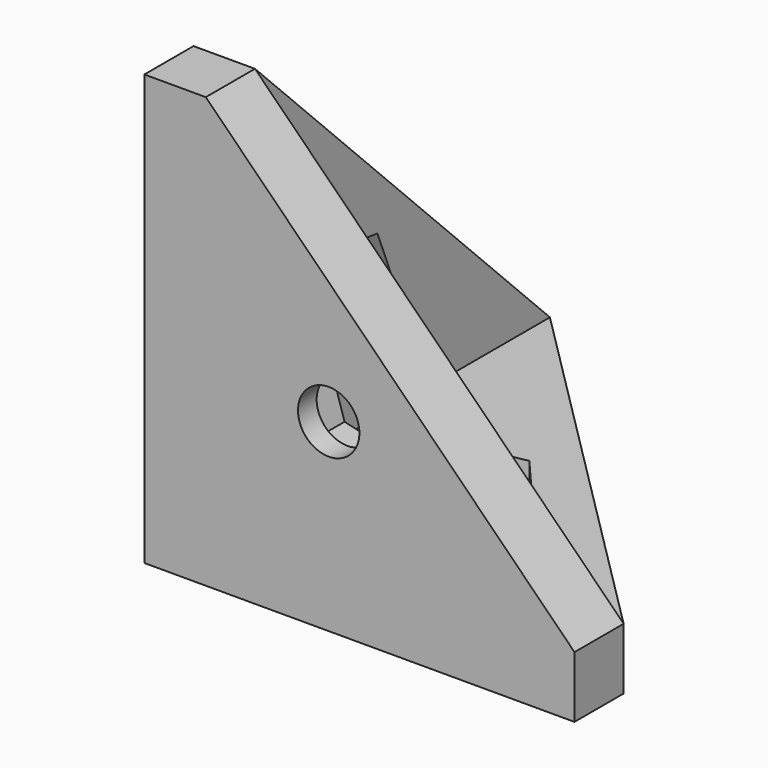
from build123d import *

# Parameters (mm, degrees)
SKETCH_R        = 2.5
PAD_DEPTH       = 5
SKETCH001_R     = 2.5
PAD001_DEPTH    = 5
SKETCH002_R     = 2.5
PAD002_DEPTH    = 5
POCKET_DEPTH    = 3.1
POCKET001_DEPTH = 3.1
POCKET002_DEPTH = 3.1


with BuildPart() as part:
    # Sketch → Pad (new body)
    with BuildSketch(Plane.XY):
        Polygon((0, 0), (0, 35), (5, 35), (35, 5), (35, 0), align=None)
        with Locations((15, 15)):
            Circle(SKETCH_R, mode=Mode.SUBTRACT)
    extrude(amount=PAD_DEPTH)

    # Sketch001 → Pad001 (join)
    with BuildSketch(Plane.XZ):
        Polygon((0, 0), (0, 35), (5, 35), (35, 5), (35, 0), align=None)
        with Locations((15, 15)):
            Circle(SKETCH001_R, mode=Mode.SUBTRACT)
    extrude(amount=-PAD001_DEPTH)

    # Sketch002 → Pad002 (join)
    with BuildSketch(Plane.YZ):
        Polygon((0, 0), (0, 35), (5, 35), (35, 5), (35, 0), align=None)
        with Locations((15, 15)):
            Circle(SKETCH002_R, mode=Mode.SUBTRACT)
    extrude(amount=PAD002_DEPTH)

    # Sketch003 (on Face11 of Pad002) → Pocket (cut)
    with BuildSketch(Plane(origin=(0, 5, 0), x_dir=(-1, 0, 0), z_dir=(0, 1, 0))):
        Polygon((-13.828396, 18.807538), (-17.711622, 17.918408), (-18.883227, 14.11087), (-16.171604, 11.192462), (-12.288378, 12.081592), (-11.116773, 15.88913), align=None)
    extrude(amount=-POCKET_DEPTH, mode=Mode.SUBTRACT)

    # Sketch004 (on Face10 of Pocket) → Pocket001 (cut)
    with BuildSketch(Plane.XY.offset(5)):
        Polygon((16.321291, 18.758216), (12.405934, 18.023379), (11.084644, 14.265163), (13.678709, 11.241784), (17.594066, 11.976621), (18.915356, 15.734837), align=None)
    extrude(amount=-POCKET001_DEPTH, mode=Mode.SUBTRACT)

    # Sketch005 (on Face12 of Pocket001) → Pocket002 (cut)
    with BuildSketch(Plane.YZ.offset(5)):
        Polygon((18.944452, 14.442056), (17.45542, 18.137023), (13.510968, 18.694967), (11.055548, 15.557944), (12.54458, 11.862977), (16.489032, 11.305033), align=None)
    extrude(amount=-POCKET002_DEPTH, mode=Mode.SUBTRACT)


solid = part.part
